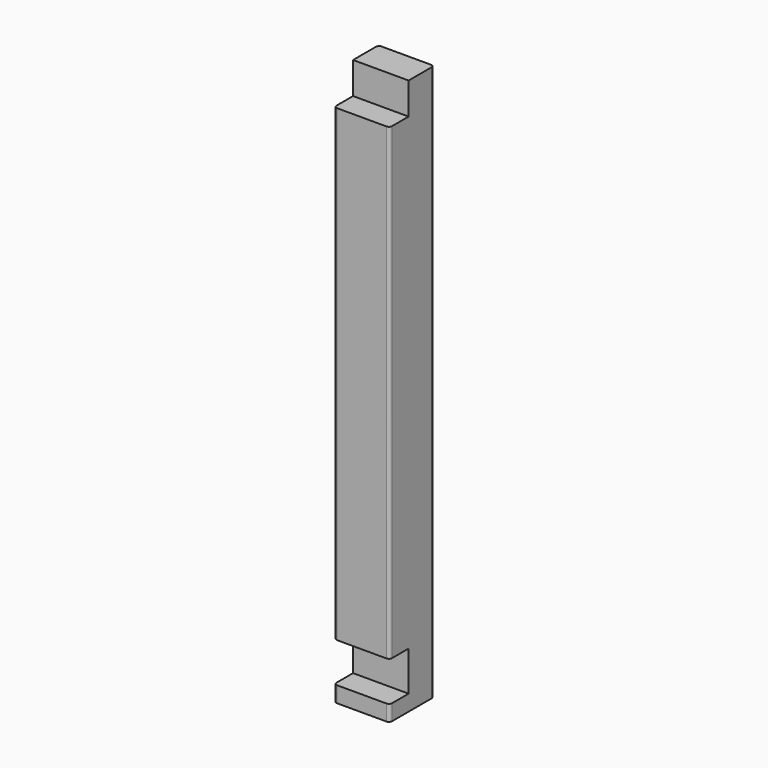
from build123d import *

# Parameters (mm, degrees)
F1_DEPTH = 44.45
F2_R     = 5.08


with BuildPart() as f1:
    # F0 (on Right) → F1 (new body, symmetric)
    with BuildSketch(Plane.YZ):
        Polygon((26.359464475, -364.0086964671), (26.359464475, 524.9913035329), (-24.440535525, 524.9913035329), (-24.440535525, 474.1913035329), (-62.540535525, 474.1913035329), (-62.540535525, -275.1086964671), (-24.440535525, -275.1086964671), (-24.440535525, -338.6086964671), (-62.540535525, -338.6086964671), (-62.540535525, -364.0086964671), align=None)
    extrude(amount=F1_DEPTH, both=True)

    # F2
    f2_edges = [f1.edges().sort_by_distance(p)[0] for p in [
        (44.45, -62.540536, 99.541304),
        (44.45, -62.540536, -351.308696),
        (-44.45, -62.540536, -351.308696),
        (-44.45, -62.540536, 99.541304),
        (44.45, 26.359464, 80.491304),
        (-44.45, 26.359464, 80.491304),
    ]]
    fillet(f2_edges, radius=F2_R)


solid = f1.part
